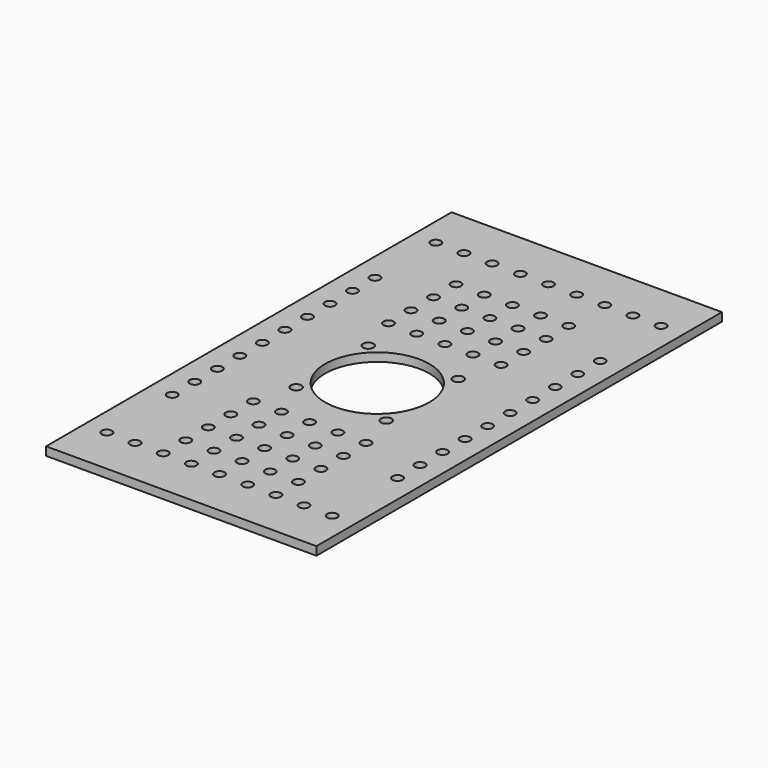
from build123d import *

# Parameters (mm, degrees)
CYLINDER004_R     = 1.8
CYLINDER004_DEPTH = 200
ARRAY003_X_COUNT  = 9
ARRAY003_X_PITCH  = 10
ARRAY003_Y_COUNT  = 2
ARRAY003_Y_PITCH  = 146
BOX011_W          = 50
BOX011_H          = 50
BOX011_DEPTH      = 100
CYLINDER012_R     = 1.8
CYLINDER012_DEPTH = 100
ARRAY008_X_COUNT  = 5
ARRAY008_X_PITCH  = 10
ARRAY008_Y_COUNT  = 13
ARRAY008_Y_PITCH  = 10
CYLINDER011_R     = 18.5
CYLINDER011_DEPTH = 100
CYLINDER010_R     = 1.9
CYLINDER010_DEPTH = 100
ARRAY007_X_COUNT  = 2
ARRAY007_X_PITCH  = 32
ARRAY007_Y_COUNT  = 2
ARRAY007_Y_PITCH  = 32
CYLINDER006_R     = 1.8
CYLINDER006_DEPTH = 200
ARRAY005_X_COUNT  = 2
ARRAY005_X_PITCH  = 80
ARRAY005_Y_COUNT  = 10
ARRAY005_Y_PITCH  = 10
BOX009_W          = 96
BOX009_H          = 180
BOX009_DEPTH      = 3


with BuildPart() as psu_bottom_bolt_hole_array:
    # Cylinder004 → Cylinder004 (new body)
    with BuildSketch(Plane(origin=(-40, 20, 0), x_dir=(1, 0, 0), z_dir=(0, 0, 1))):
        Circle(CYLINDER004_R)
    extrude(amount=CYLINDER004_DEPTH)

    # Array003 X: psu bottom bolt hole array ×9


with BuildPart() as psu_bottom_bolt_hole_array_1:
    add(psu_bottom_bolt_hole_array.part)
    with Locations(*[(i * ARRAY003_X_PITCH, 0, 0) for i in range(1, ARRAY003_X_COUNT)]):
        add(psu_bottom_bolt_hole_array.part)

    # Array003 Y: psu bottom bolt hole array ×2


with BuildPart() as psu_bottom_bolt_hole_array_2:
    add(psu_bottom_bolt_hole_array_1.part)
    with Locations(*[(0, i * ARRAY003_Y_PITCH, 0) for i in range(1, ARRAY003_Y_COUNT)]):
        add(psu_bottom_bolt_hole_array_1.part)


with BuildPart() as no_vent_hole_cube:
    # Box011 → Box011 (new body)
    with BuildSketch(Plane(origin=(-25, 66, 0), x_dir=(1, 0, 0), z_dir=(0, 0, 1))):
        with Locations((25, 25)):
            Rectangle(BOX011_W, BOX011_H)
    extrude(amount=BOX011_DEPTH)


with BuildPart() as vent_holes_cut:
    # Cylinder012 → Cylinder012 (new body)
    with BuildSketch(Plane.XY):
        Circle(CYLINDER012_R)
    extrude(amount=CYLINDER012_DEPTH)

    # Array008 X: vent holes cut ×5


with BuildPart() as vent_holes_cut_1:
    add(vent_holes_cut.part)
    with Locations(*[(i * ARRAY008_X_PITCH, 0, 0) for i in range(1, ARRAY008_X_COUNT)]):
        add(vent_holes_cut.part)

    # Array008 Y: vent holes cut ×13


with BuildPart() as vent_holes_cut_2:
    add(vent_holes_cut_1.part)
    with Locations(*[(0, i * ARRAY008_Y_PITCH, 0) for i in range(1, ARRAY008_Y_COUNT)]):
        add(vent_holes_cut_1.part)


with BuildPart() as vent_holes_cut_3:
    # Array008 placement: moved
    add(vent_holes_cut_2.part.moved(Location((-20, 30, 0))))

    # Cut012: cut no vent hole cube
    add(no_vent_hole_cube.part, mode=Mode.SUBTRACT)


with BuildPart() as fan_hole:
    # Cylinder011 → Cylinder011 (new body)
    with BuildSketch(Plane.XY):
        Circle(CYLINDER011_R)
    extrude(amount=CYLINDER011_DEPTH)


with BuildPart() as fan_hole_fusion:
    # Cylinder010 → Cylinder010 (new body)
    with BuildSketch(Plane.XY):
        Circle(CYLINDER010_R)
    extrude(amount=CYLINDER010_DEPTH)

    # Array007 X: fan hole fusion ×2


with BuildPart() as fan_hole_fusion_1:
    add(fan_hole_fusion.part)
    with Locations(*[(i * ARRAY007_X_PITCH, 0, 0) for i in range(1, ARRAY007_X_COUNT)]):
        add(fan_hole_fusion.part)

    # Array007 Y: fan hole fusion ×2


with BuildPart() as fan_hole_fusion_2:
    add(fan_hole_fusion_1.part)
    with Locations(*[(0, i * ARRAY007_Y_PITCH, 0) for i in range(1, ARRAY007_Y_COUNT)]):
        add(fan_hole_fusion_1.part)


with BuildPart() as fan_hole_fusion_3:
    # Array007 placement: moved
    add(fan_hole_fusion_2.part.moved(Location((-16, -16, 0))))

    # Fusion011: union fan hole
    add(fan_hole.part)


with BuildPart() as fan_hole_fusion_4:
    # Fusion011 placement: moved
    add(fan_hole_fusion_3.part.moved(Location((0, 90, 0))))


with BuildPart() as top_hole_fusion:
    # Cylinder006 → Cylinder006 (new body)
    with BuildSketch(Plane(origin=(-40, 9, 0), x_dir=(1, 0, 0), z_dir=(0, 0, 1))):
        Circle(CYLINDER006_R)
    extrude(amount=CYLINDER006_DEPTH)

    # Array005 X: top hole fusion ×2


with BuildPart() as top_hole_fusion_1:
    add(top_hole_fusion.part)
    with Locations(*[(i * ARRAY005_X_PITCH, 0, 0) for i in range(1, ARRAY005_X_COUNT)]):
        add(top_hole_fusion.part)

    # Array005 Y: top hole fusion ×10


with BuildPart() as top_hole_fusion_2:
    add(top_hole_fusion_1.part)
    with Locations(*[(0, i * ARRAY005_Y_PITCH, 0) for i in range(1, ARRAY005_Y_COUNT)]):
        add(top_hole_fusion_1.part)


with BuildPart() as top_hole_fusion_3:
    # Array005 placement: moved
    add(top_hole_fusion_2.part.moved(Location((0, 40, 0))))

    # Fusion012: union psu bottom bolt hole array, vent holes cut, fan hole fusion
    add(psu_bottom_bolt_hole_array_2.part)
    add(vent_holes_cut_3.part)
    add(fan_hole_fusion_4.part)


with BuildPart() as psu_top_cut:
    # Box009 → Box009 (new body)
    with BuildSketch(Plane(origin=(-48, 3, 57), x_dir=(1, 0, 0), z_dir=(0, 0, 1))):
        with Locations((48, 90)):
            Rectangle(BOX009_W, BOX009_H)
    extrude(amount=BOX009_DEPTH)

    # Cut010: cut top hole fusion
    add(top_hole_fusion_3.part, mode=Mode.SUBTRACT)


solid = psu_top_cut.part
